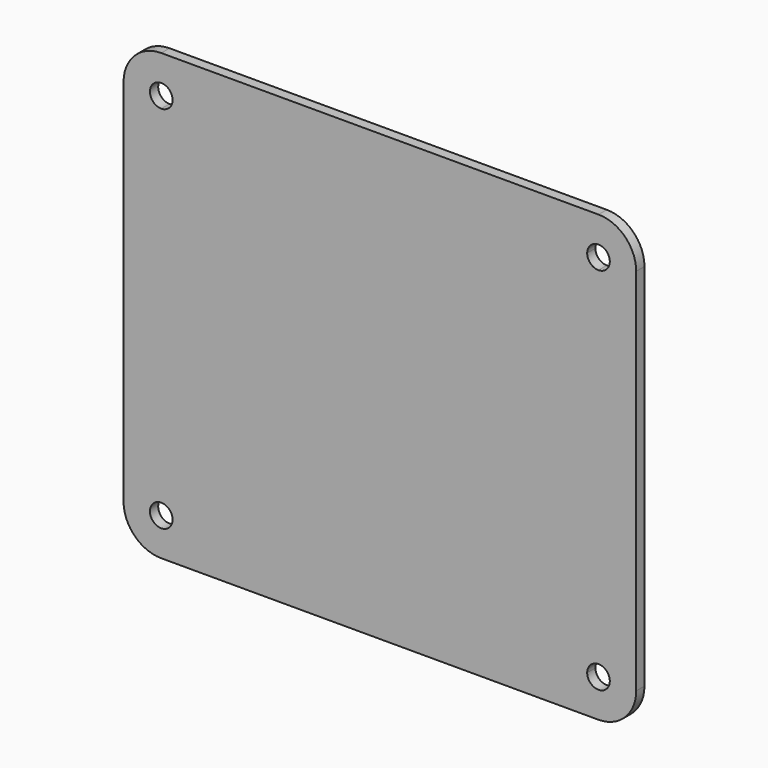
from build123d import *

# Parameters (mm, degrees)
F1_DEPTH = 1.37


with BuildPart() as f1:
    # F0 (on Front) → F1 (new body)
    with BuildSketch(Plane.XZ):
        with BuildLine():
            Line((29, 29.5), (-29, 29.5))
            ThreePointArc((-29, 29.5), (-32.5355339059, 28.0355339059), (-34, 24.5))
            Line((-34, 24.5), (-34, -24.5))
            ThreePointArc((-34, -24.5), (-32.5355339059, -28.0355339059), (-29, -29.5))
            Line((-29, -29.5), (29, -29.5))
            ThreePointArc((29, -29.5), (32.5355339059, -28.0355339059), (34, -24.5))
            Line((34, -24.5), (34, 24.5))
            ThreePointArc((34, 24.5), (32.5355339059, 28.0355339059), (29, 29.5))
        make_face()
        with BuildLine():
            ThreePointArc((-29, 23), (-30.0606601718, 25.5606601718), (-27.5, 24.5))
            Line((-27.5, 24.5), (27.5, 24.5))
            ThreePointArc((27.5, 24.5), (29, 26), (30.5, 24.5))
            ThreePointArc((30.5, 24.5), (30.0606601718, 23.4393398282), (29, 23))
            Line((29, 23), (29, -23))
            ThreePointArc((29, -23), (30.0606601718, -23.4393398282), (30.5, -24.5))
            ThreePointArc((30.5, -24.5), (29, -26), (27.5, -24.5))
            Line((27.5, -24.5), (-27.5, -24.5))
            ThreePointArc((-27.5, -24.5), (-30.0606601718, -25.5606601718), (-29, -23))
            Line((-29, -23), (-29, 23))
        make_face(mode=Mode.SUBTRACT)
        with BuildLine():
            Line((27.5, 24.5), (-27.5, 24.5))
            ThreePointArc((-27.5, 24.5), (-27.9393398282, 23.4393398282), (-29, 23))
            Line((-29, 23), (-29, -23))
            ThreePointArc((-29, -23), (-27.9393398282, -23.4393398282), (-27.5, -24.5))
            Line((-27.5, -24.5), (27.5, -24.5))
            ThreePointArc((27.5, -24.5), (27.9393398282, -23.4393398282), (29, -23))
            Line((29, -23), (29, 23))
            ThreePointArc((29, 23), (27.9393398282, 23.4393398282), (27.5, 24.5))
        make_face()
    extrude(amount=F1_DEPTH)


solid = f1.part
